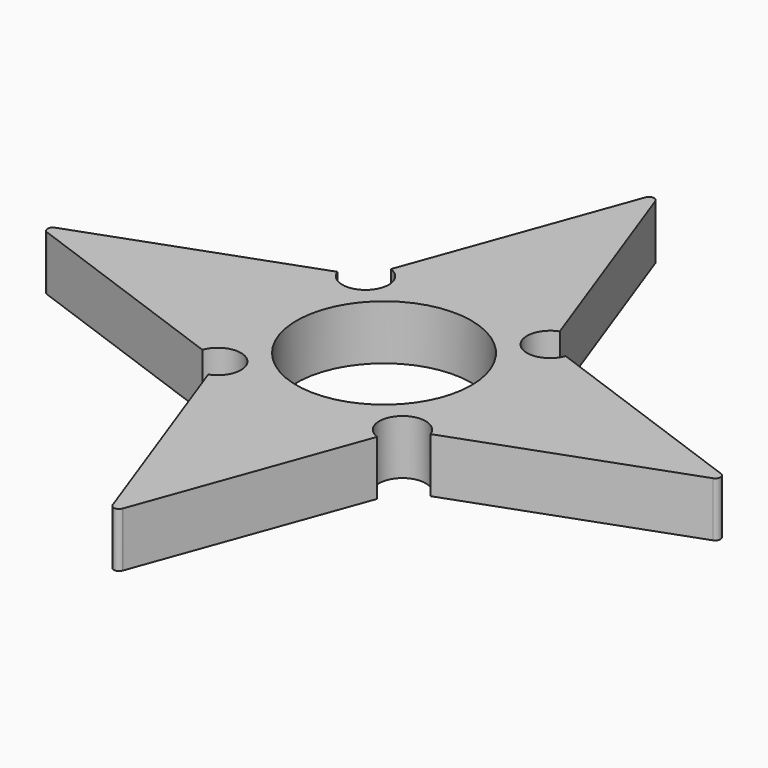
from build123d import *

# Parameters (mm, degrees)
F0_R     = 11.2
F1_DEPTH = 7


with BuildPart() as f1:
    # F0 (on Top) → F1 (new body)
    with BuildSketch(Plane.XY):
        with BuildLine():
            ThreePointArc((0.629275, 42.658791), (-0.007055, 43.079038), (-0.634205, 42.645211))
            Line((-0.634205, 42.645211), (-0.644867, 42.615845))
            Line((-0.644867, 42.615845), (-10.810192, 14.617693))
            ThreePointArc((-10.810192, 14.617693), (-9.723034, 9.72304), (-14.617687, 10.810197))
            Line((-14.617687, 10.810197), (-42.658791, 0.629275))
            ThreePointArc((-42.658791, 0.629275), (-43.079038, -0.007039), (-42.64524, -0.634194))
            Line((-42.64524, -0.634194), (-42.615845, -0.644866))
            Line((-42.615845, -0.644866), (-14.617691, -10.810185))
            ThreePointArc((-14.617691, -10.810185), (-9.723041, -9.723034), (-10.810191, -14.617685))
            Line((-10.810191, -14.617685), (-0.629275, -42.658791))
            ThreePointArc((-0.629275, -42.658791), (0.007037, -43.079038), (0.634193, -42.645243))
            Line((0.634193, -42.645243), (0.644866, -42.615845))
            Line((0.644866, -42.615845), (10.810179, -14.617689))
            ThreePointArc((10.810179, -14.617689), (9.723034, -9.72304), (14.617682, -10.810185))
            Line((14.617682, -10.810185), (42.658791, -0.629275))
            ThreePointArc((42.658791, -0.629275), (43.079038, 0.007064), (42.645194, 0.634212))
            Line((42.645194, 0.634212), (42.615845, 0.644868))
            Line((42.615845, 0.644868), (14.617696, 10.810198))
            ThreePointArc((14.617696, 10.810198), (9.72304, 9.723034), (10.810204, 14.617689))
            Line((10.810204, 14.617689), (0.629275, 42.658791))
        make_face()
        Circle(F0_R, mode=Mode.SUBTRACT)
    extrude(amount=F1_DEPTH)


solid = f1.part
